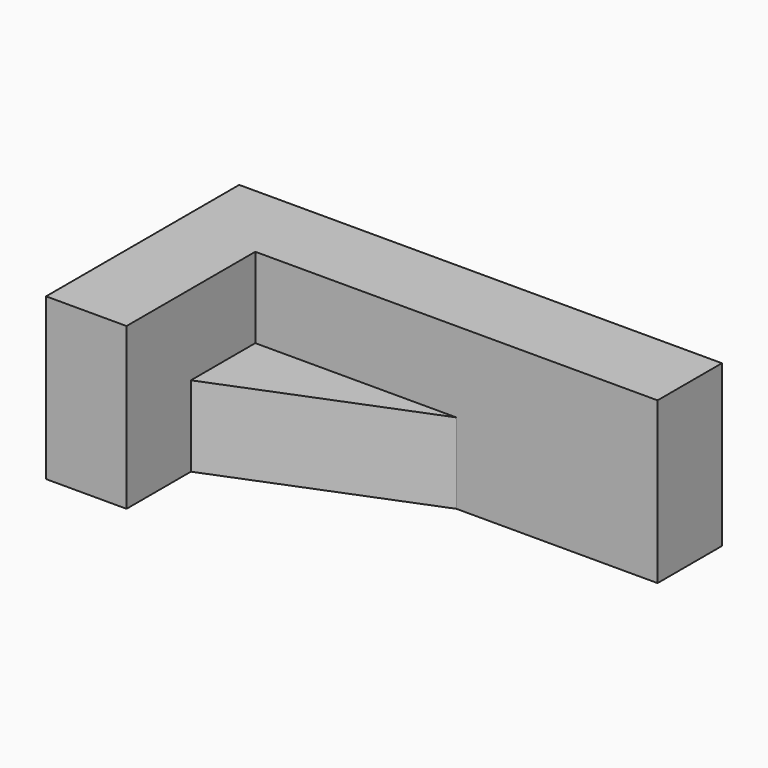
from build123d import *

# Parameters (mm, degrees)
F0_W     = 152.4
F0_H     = 50.8
F1_DEPTH = 76.2
F3_DEPTH = 50.8
F4_DEPTH = 25.4


with BuildPart() as f1:
    # F0 (on Front) → F1 (new body)
    with BuildSketch(Plane.XZ):
        with Locations((76.2, 25.4)):
            Rectangle(F0_W, F0_H)
    extrude(amount=F1_DEPTH)

    # F2 (on face) → F3 (cut)
    with BuildSketch(Plane.XY.offset(50.8)):
        Polygon((25.4, -50.8), (25.4, -76.2), (152.4, -76.2), (152.4, -25.4), (88.9, -25.4), align=None)
    extrude(amount=-F3_DEPTH, mode=Mode.SUBTRACT)

    # F2 (on face) → F4 (cut)
    with BuildSketch(Plane.XY.offset(50.8)):
        Polygon((25.4, -25.4), (25.4, -50.8), (88.9, -25.4), align=None)
    extrude(amount=-F4_DEPTH, mode=Mode.SUBTRACT)


solid = f1.part
